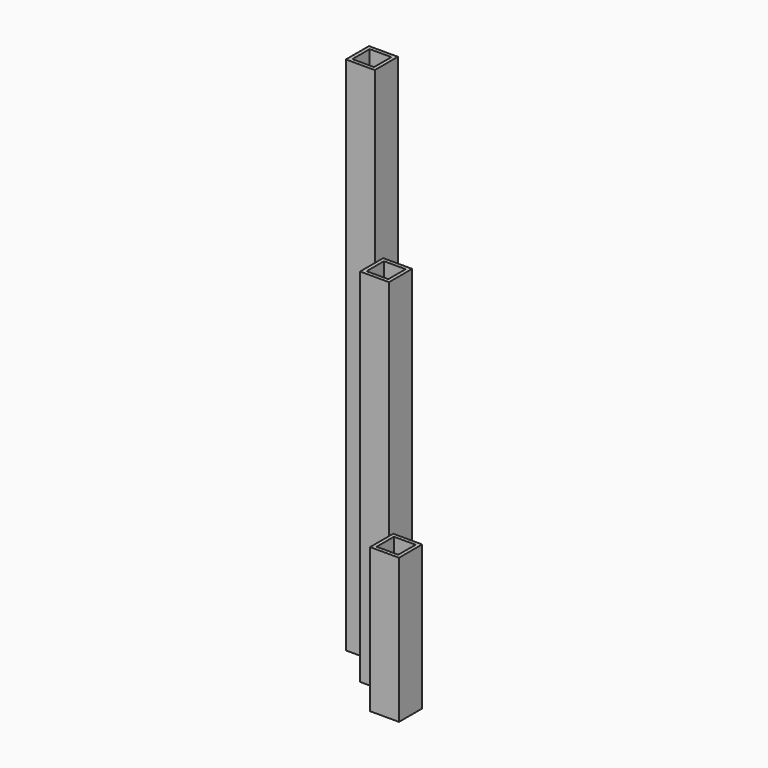
from build123d import *

# Parameters (mm, degrees)
F0_W     = 25.4
F0_H     = 25.4
F0_W_2   = 19.05
F0_H_2   = 19.05
F1_DEPTH = 457.2
F2_DEPTH = 317.5
F3_DEPTH = 127


with BuildPart() as f1:
    # F0 (on Top) → F1 (new body)
    with BuildSketch(Plane.XY):
        with Locations((-65.687634, 60.122371)):
            Rectangle(F0_W, F0_H)
        with Locations((-65.687634, 60.122371)):
            Rectangle(F0_W_2, F0_H_2, mode=Mode.SUBTRACT)
    extrude(amount=F1_DEPTH)


with BuildPart() as f2:
    # F0 (on Top) → F2 (new body)
    with BuildSketch(Plane.XY):
        with Locations((-28.818203, 29.684331)):
            Rectangle(F0_W, F0_H)
        with Locations((-28.818203, 29.684331)):
            Rectangle(F0_W_2, F0_H_2, mode=Mode.SUBTRACT)
    extrude(amount=F2_DEPTH)


with BuildPart() as f3:
    # F0 (on Top) → F3 (new body)
    with BuildSketch(Plane.XY):
        with Locations((3.757574, -0.039552)):
            Rectangle(F0_W, F0_H)
        with Locations((3.757574, -0.039552)):
            Rectangle(F0_W_2, F0_H_2, mode=Mode.SUBTRACT)
    extrude(amount=F3_DEPTH)


solid = Compound([f1.part, f2.part, f3.part])
